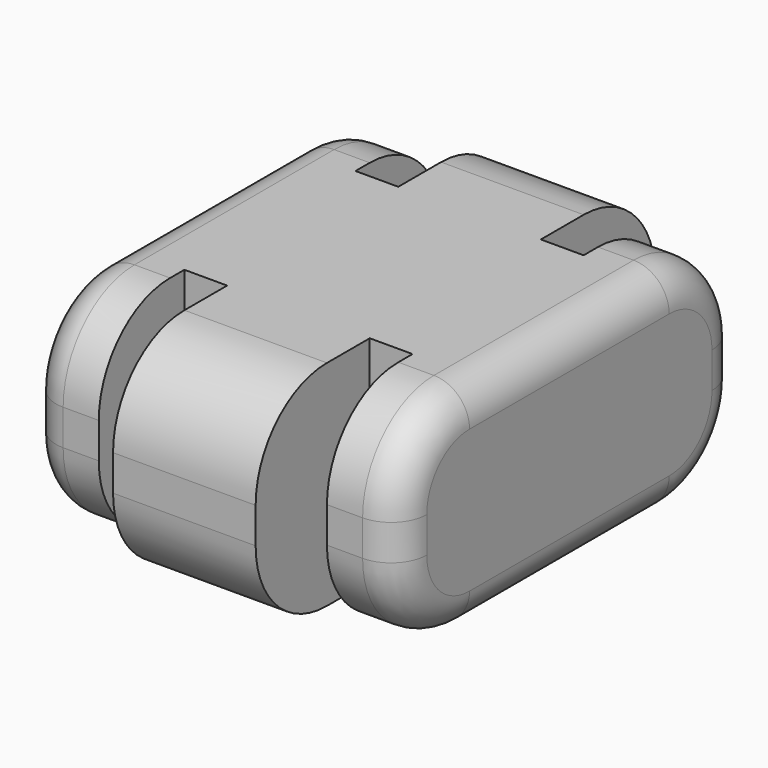
from build123d import *

# Parameters (mm, degrees)
PAD_DEPTH   = 6
FILLET_R    = 2.5
FILLET001_R = 1


with BuildPart() as part:
    # Sketch → Pad (new body)
    with BuildSketch(Plane.XY):
        Polygon((0, 7), (-2, 7), (-2, 3), (-3.2, 3), (-3.2, 6), (-5.2, 6), (-5.2, 0), (-5.2, -6), (-3.2, -6), (-3.2, -3), (-2, -3), (-2, -7), (0, -7), (2, -7), (2, -3), (3.2, -3), (3.2, -6), (5.2, -6), (5.2, 0), (5.2, 6), (3.2, 6), (3.2, 3), (2, 3), (2, 7), align=None)
    extrude(amount=PAD_DEPTH)

    # Fillet
    fillet_edges = [part.edges().sort_by_distance(p)[0] for p in [
        (-4.2, 6, 6),
        (-4.2, 6, 0),
        (-4.2, -6, 0),
        (-4.2, -6, 6),
        (4.2, -6, 0),
        (4.2, -6, 6),
        (4.2, 6, 6),
        (4.2, 6, 0),
        (0, 7, 0),
        (0, -7, 0),
        (0, -7, 6),
        (0, 7, 6),
    ]]
    fillet(fillet_edges, radius=FILLET_R)

    # Fillet001
    fillet001_edges = [part.edges().sort_by_distance(p)[0] for p in [
        (-5.2, 6, 3),
        (-5.2, 5.267767, 0.732233),
        (-5.2, 5.267767, 5.267767),
        (-5.2, 0, 0),
        (-5.2, 0, 6),
        (-5.2, -5.267767, 0.732233),
        (-5.2, -5.267767, 5.267767),
        (-5.2, -6, 3),
        (5.2, -6, 3),
        (5.2, -5.267767, 0.732233),
        (5.2, -5.267767, 5.267767),
        (5.2, 0, 0),
        (5.2, 0, 6),
        (5.2, 5.267767, 0.732233),
        (5.2, 5.267767, 5.267767),
        (5.2, 6, 3),
    ]]
    fillet(fillet001_edges, radius=FILLET001_R)


solid = part.part
